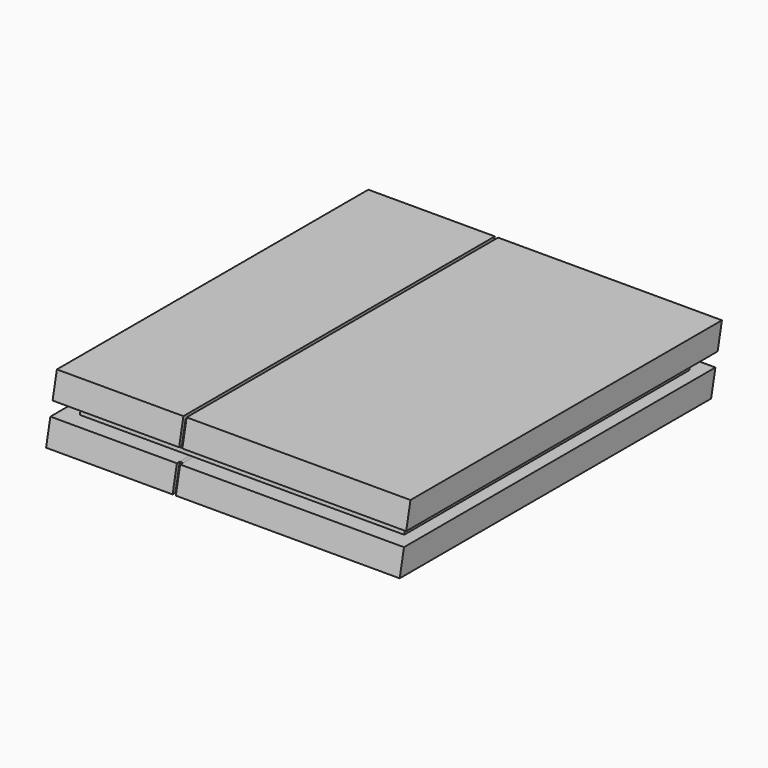
from build123d import *

# Parameters (mm, degrees)
F1_DEPTH       = 137.16
F1_DEPTH_BACK  = 38.1
F2_DEPTH       = 127
F2_DEPTH_BACK  = 127
F4_DEPTH       = 2.54
F6_DEPTH       = 99.06
F7_W           = 102.7665138245
F7_H           = 4.2582950555
F8_DEPTH       = 152.4
F10_W          = 12.7
F10_H          = 4.572
F11_DEPTH      = 6.35
F11_DEPTH_BACK = 12.7


with BuildPart() as f1:
    # F0 (on Right) → F1 (new body, two sides)
    with BuildSketch(Plane.YZ) as f1_sk:
        Polygon((162.9619138935, 49.6898981173), (-141.8380861065, 49.6898981173), (-146.0392557199, 29.9249490586), (-133.0555301652, 29.9249490586), (0, 29.9249490586), (145.7770187253, 29.9249490586), (158.7607442801, 29.9249490586), align=None)
    extrude(amount=F1_DEPTH)
    extrude(f1_sk.sketch, amount=-F1_DEPTH_BACK)


with BuildPart() as f1b:
    # F0 (on Right) → F1, piece 2 (new body, two sides)
    with BuildSketch(Plane.YZ) as f1_2_sk:
        Polygon((-135.2151048317, 19.7649490586), (-148.1988303865, 19.7649490586), (-152.4, 0), (152.4, 0), (156.6011696135, 19.7649490586), (143.6174440587, 19.7649490586), (0, 19.7649490586), align=None)
    extrude(amount=F1_DEPTH)
    extrude(f1_2_sk.sketch, amount=-F1_DEPTH_BACK)


with BuildPart() as f2:
    # F0 (on Right) → F2 (new body, two sides)
    with BuildSketch(Plane.YZ) as f2_sk:
        Polygon((143.6174440587, 19.7649490586), (144.697231392, 24.8449490586), (0, 24.8449490586), (0, 19.7649490586), align=None)
        Polygon((144.697231392, 24.8449490586), (145.7770187253, 29.9249490586), (0, 29.9249490586), (0, 24.8449490586), align=None)
        Polygon((0, 24.8449490586), (-134.1353174984, 24.8449490586), (-135.2151048317, 19.7649490586), (0, 19.7649490586), align=None)
        Polygon((0, 29.9249490586), (-133.0555301652, 29.9249490586), (-134.1353174984, 24.8449490586), (0, 24.8449490586), align=None)
    extrude(amount=F2_DEPTH)
    extrude(f2_sk.sketch, amount=-F2_DEPTH_BACK)

    # F7 (on Front) → F8 (cut)
    with BuildSketch(Plane.XZ):
        with Locations((-63.9565065503, 24.7351552825)):
            Rectangle(F7_W, F7_H)
    extrude(amount=F8_DEPTH, mode=Mode.SUBTRACT)

    # F10 (on offset) → F11 (cut, two sides)
    with BuildSketch(Plane.XZ.offset(122.428)) as f11_sk:
        with Locations((12.7, 24.8920077548)):
            Rectangle(F10_W, F10_H)
        with Locations((36.9256554008, 24.8920077548)):
            Rectangle(F10_W, F10_H)
    extrude(amount=-F11_DEPTH, mode=Mode.SUBTRACT)
    extrude(f11_sk.sketch, amount=F11_DEPTH_BACK, mode=Mode.SUBTRACT)


with BuildPart() as f4:
    # F3 (on face) → F4 (new body)
    with BuildSketch(Plane(origin=(-38.1, 0, 0), x_dir=(0, -1, 0), z_dir=(-1, 0, 0))):
        Polygon((139.6802159434, 46.7018868242), (-162.3267924868, 46.7018868242), (-158.7607442801, 29.9249490586), (143.2462641502, 29.9249490586), align=None)
    extrude(amount=F4_DEPTH)


with BuildPart() as f4b:
    # F3 (on face) → F4, piece 2 (new body)
    with BuildSketch(Plane(origin=(-38.1, 0, 0), x_dir=(0, -1, 0), z_dir=(-1, 0, 0))):
        Polygon((145.4058388168, 19.7649490586), (-156.6011696135, 19.7649490586), (-152.4, 0), (149.6070084303, 0), align=None)
    extrude(amount=F4_DEPTH)


with BuildPart() as f6:
    # F5 (on face) → F6 (new body)
    with BuildSketch(Plane(origin=(-40.64, 0, 0), x_dir=(0, -1, 0), z_dir=(-1, 0, 0))):
        Polygon((143.2462641502, 29.9249490586), (146.0392557199, 29.9249490586), (141.8380861065, 49.6898981173), (-162.9619138935, 49.6898981173), (-162.3267924868, 46.7018868242), (139.6802159434, 46.7018868242), align=None)
        Polygon((-158.7607442801, 29.9249490586), (143.2462641502, 29.9249490586), (139.6802159434, 46.7018868242), (-162.3267924868, 46.7018868242), align=None)
    extrude(amount=F6_DEPTH)


with BuildPart() as f6b:
    # F5 (on face) → F6, piece 2 (new body)
    with BuildSketch(Plane(origin=(-40.64, 0, 0), x_dir=(0, -1, 0), z_dir=(-1, 0, 0))):
        Polygon((-152.4, 0), (152.4, 0), (148.1988303865, 19.7649490586), (-156.6011696135, 19.7649490586), align=None)
    extrude(amount=F6_DEPTH)


solid = Compound([f1.part, f1b.part, f2.part, f4.part, f4b.part, f6.part, f6b.part])
